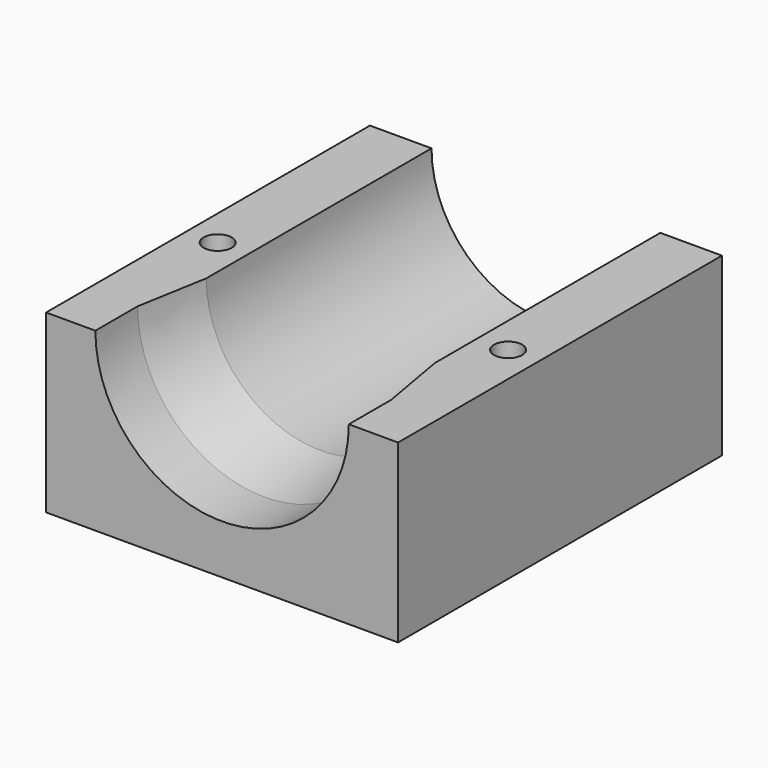
from build123d import *

# Parameters (mm, degrees)
F2_DEPTH = 50
F5_D     = 8
F5_DEPTH = 10
F5_TIP   = 2.4034424761
F7_D     = 8
F7_DEPTH = 20
F7_TIP   = 2.4034424761
F8_DEPTH = 10


with BuildPart() as f2:
    # F1 (on Top) → F2 (new body)
    with BuildSketch(Plane.XY):
        Polygon((-50, 0), (0, 0), (50, 0), (50, 125), (-50, 125), align=None)
    extrude(amount=-F2_DEPTH)

    # F0 (on Top) → F3 (revolve, cut)
    with BuildSketch(Plane.XY):
        Polygon((-36, 0), (0, 0), (0, 125), (-32.5, 125), (-32.5, 35), (-36, 15), align=None)
    revolve(axis=Axis((0, 62.5, 0), (0, -1, 0)), mode=Mode.SUBTRACT)

    # F5
    with Locations(Plane.XY):
        with Locations((-41.25, 50), (41.25, 50)):
            Hole(F5_D / 2, depth=F5_DEPTH)
            with Locations((0, 0, -(F5_DEPTH + F5_TIP / 2))):  # 118° drill point
                Cone(0, F5_D / 2, F5_TIP, mode=Mode.SUBTRACT)

    # F7
    with Locations(Plane(origin=(0, 125, 0), x_dir=(-1, 0, 0), z_dir=(0, 1, 0))):
        with Locations((-36.2523114815, -33.0952695304), (36.2523114815, -33.0952695304)):
            Hole(F7_D / 2, depth=F7_DEPTH)
            with Locations((0, 0, -(F7_DEPTH + F7_TIP / 2))):  # 118° drill point
                Cone(0, F7_D / 2, F7_TIP, mode=Mode.SUBTRACT)

    # F8 (cut): a face of the model
    f8_faces = [f2.faces().sort_by_distance(p)[0] for p in [
        (41.25, 125, -1.1180339887),
    ]]
    extrude(f8_faces, amount=-F8_DEPTH, mode=Mode.SUBTRACT)


solid = f2.part
